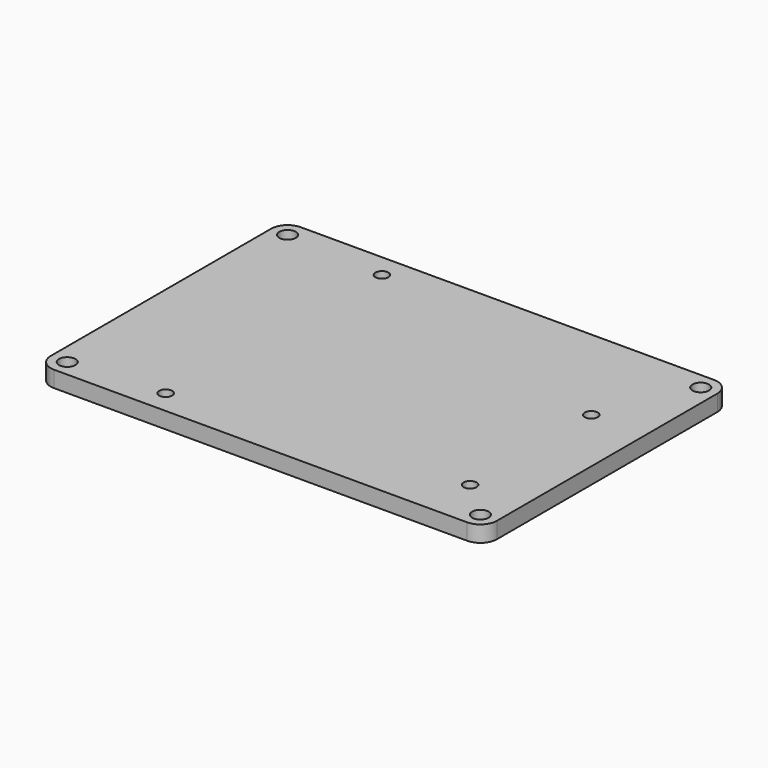
from build123d import *

# Parameters (mm, degrees)
F0_R     = 1.524
F0_R_2   = 1.1938
F1_DEPTH = 2.9972


with BuildPart() as f1:
    # F0 (on Top) → F1 (new body)
    with BuildSketch(Plane.XY):
        with BuildLine():
            ThreePointArc((0, 3.048), (0.892739, 0.892739), (3.048, 0))
            Line((3.048, 0), (79.248, 0))
            ThreePointArc((79.248, 0), (81.403261, 0.892739), (82.296, 3.048))
            Line((82.296, 3.048), (82.296, 53.848))
            ThreePointArc((82.296, 53.848), (81.403261, 56.003261), (79.248, 56.896))
            Line((79.248, 56.896), (3.048, 56.896))
            ThreePointArc((3.048, 56.896), (0.892739, 56.003261), (0, 53.848))
            Line((0, 53.848), (0, 3.048))
        make_face()
        with Locations((3.048, 3.048)):
            Circle(F0_R, mode=Mode.SUBTRACT)
        with Locations((20.193, 4.318)):
            Circle(F0_R_2, mode=Mode.SUBTRACT)
        with Locations((79.248, 3.048)):
            Circle(F0_R, mode=Mode.SUBTRACT)
        with Locations((72.263, 9.398)):
            Circle(F0_R_2, mode=Mode.SUBTRACT)
        with Locations((3.048, 53.848)):
            Circle(F0_R, mode=Mode.SUBTRACT)
        with Locations((21.463, 52.578)):
            Circle(F0_R_2, mode=Mode.SUBTRACT)
        with Locations((72.263, 37.338)):
            Circle(F0_R_2, mode=Mode.SUBTRACT)
        with Locations((79.248, 53.848)):
            Circle(F0_R, mode=Mode.SUBTRACT)
    extrude(amount=F1_DEPTH)


solid = f1.part
